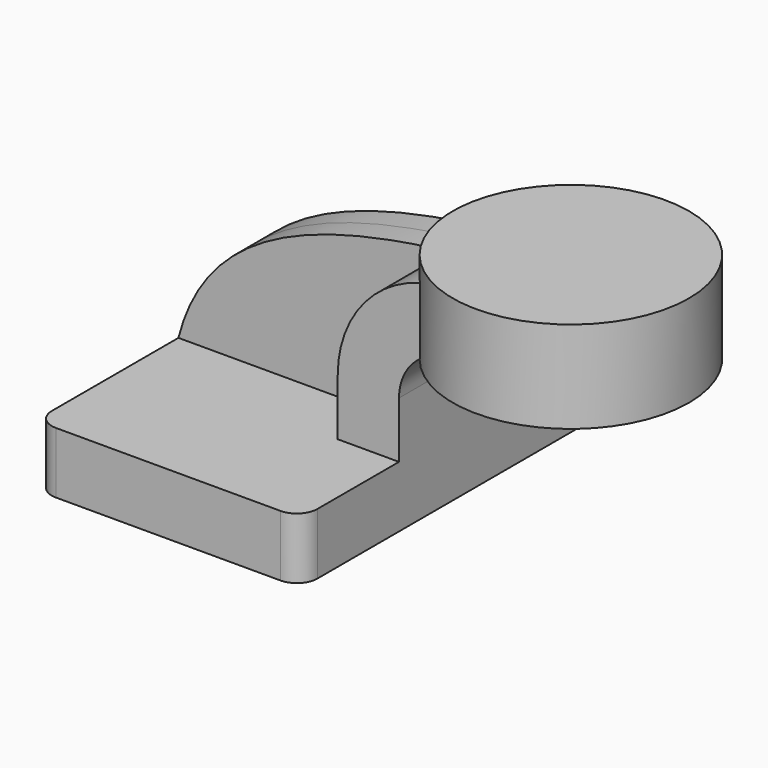
from build123d import *

# Parameters (mm, degrees)
F1_DEPTH = 63.5
F2_DEPTH = 25.4
F3_DEPTH = 7.9375
F0_W     = 36.734618
F0_H     = 28.575
F5_R     = 6.35


with BuildPart() as f1:
    # F0 (on Front) → F1 (new body, symmetric)
    with BuildSketch(Plane.XZ):
        Polygon((-41.275, 9.525), (-41.275, -9.525), (41.275, -9.525), (41.275, 9.525), (22.225, 9.525), align=None)
    extrude(amount=F1_DEPTH, both=True)

    # F0 (on Front) → F2 (join, symmetric)
    with BuildSketch(Plane.XZ):
        with BuildLine():
            Line((22.225, 9.525), (41.275, 9.525))
            Line((41.275, 9.525), (41.275, 27.0002))
            ThreePointArc((41.275, 27.0002), (45.92468, 38.22552), (57.15, 42.8752))
            Line((57.15, 42.8752), (60.325, 42.8752))
            Line((60.325, 42.8752), (60.325, 61.9252))
            Line((60.325, 61.9252), (57.15, 61.9252))
            add(Edge.make_bspline(
                [(50.826813, 61.348023), (52.907758, 61.552865), (55.015741, 61.744854), (57.15, 61.9252)],
                knots=[106.970225, 106.970225, 106.970225, 106.970225, 111.504536, 111.504536, 111.504536, 111.504536], degree=3))
            ThreePointArc((50.826813, 61.348023), (30.311661, 49.348783), (22.225, 27.0002))
            Line((22.225, 27.0002), (22.225, 9.525))
        make_face()
        Polygon((60.325, 66.675), (60.325, 61.9252), (60.325, 42.8752), (60.325, 38.1), (74.390382, 38.1), (74.390382, 66.675), align=None)
    extrude(amount=F2_DEPTH, both=True)

    # F0 (on Front) → F3 (join, symmetric)
    with BuildSketch(Plane.XZ):
        with BuildLine():
            add(Edge.make_bspline(
                [(-41.275, 9.525), (-32.308794, 44.530056), (1.734671, 56.515538), (50.826813, 61.348023)],
                knots=[0, 0, 0, 0, 106.970225, 106.970225, 106.970225, 106.970225], degree=3))
            Line((-41.275, 9.525), (22.225, 9.525))
            Line((22.225, 9.525), (22.225, 27.0002))
            ThreePointArc((22.225, 27.0002), (30.311661, 49.348783), (50.826813, 61.348023))
        make_face()
    extrude(amount=F3_DEPTH, both=True)

    # F0 (on Front) → F4 (revolve)
    with BuildSketch(Plane.XZ):
        with Locations((92.757691, 52.3875)):
            Rectangle(F0_W, F0_H)
    revolve(axis=Axis((74.390382, 0, 52.3875), (0, 0, 1)))

    # F5
    f5_edges = [f1.edges().sort_by_distance(p)[0] for p in [
        (-41.275, -63.5, 0),
        (41.275, -63.5, 0),
        (41.275, 63.5, 0),
        (-41.275, 63.5, 0),
    ]]
    fillet(f5_edges, radius=F5_R)


solid = f1.part
